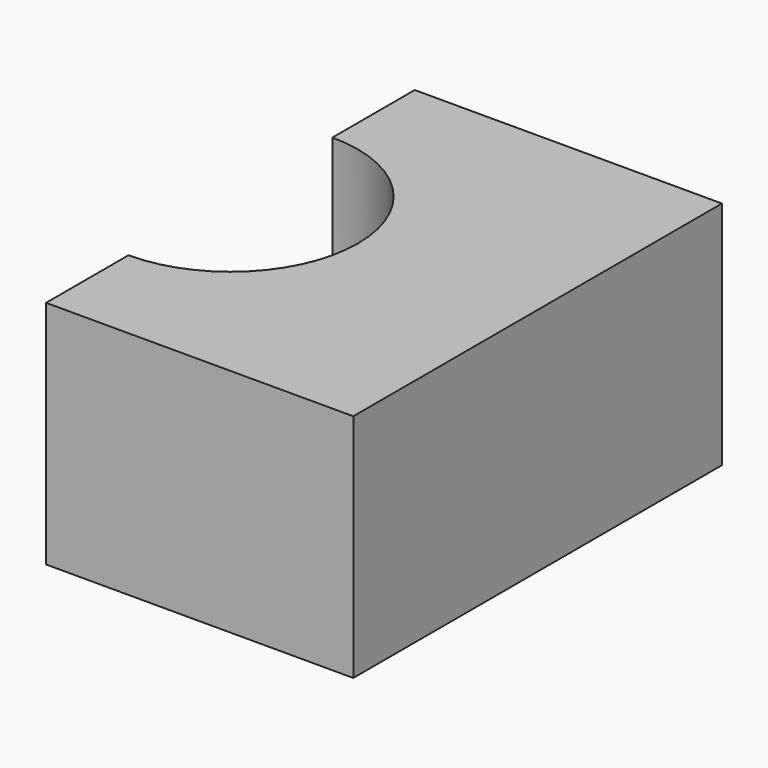
from build123d import *

# Parameters (mm, degrees)
F1_DEPTH = 19.05


with BuildPart() as f1:
    # F0 (on Top) → F1 (new body)
    with BuildSketch(Plane.XY):
        with BuildLine():
            Line((12.7, -19.05), (12.7, 19.05))
            Line((12.7, 19.05), (-12.7, 19.05))
            Line((-12.7, 19.05), (-12.7, 10.541))
            ThreePointArc((-12.7, 10.541), (-5.246387, 7.453613), (-2.159, 0))
            ThreePointArc((-2.159, 0), (-5.246387, -7.453613), (-12.7, -10.541))
            Line((-12.7, -10.541), (-12.7, -19.05))
            Line((-12.7, -19.05), (12.7, -19.05))
        make_face()
    extrude(amount=F1_DEPTH)


solid = f1.part
